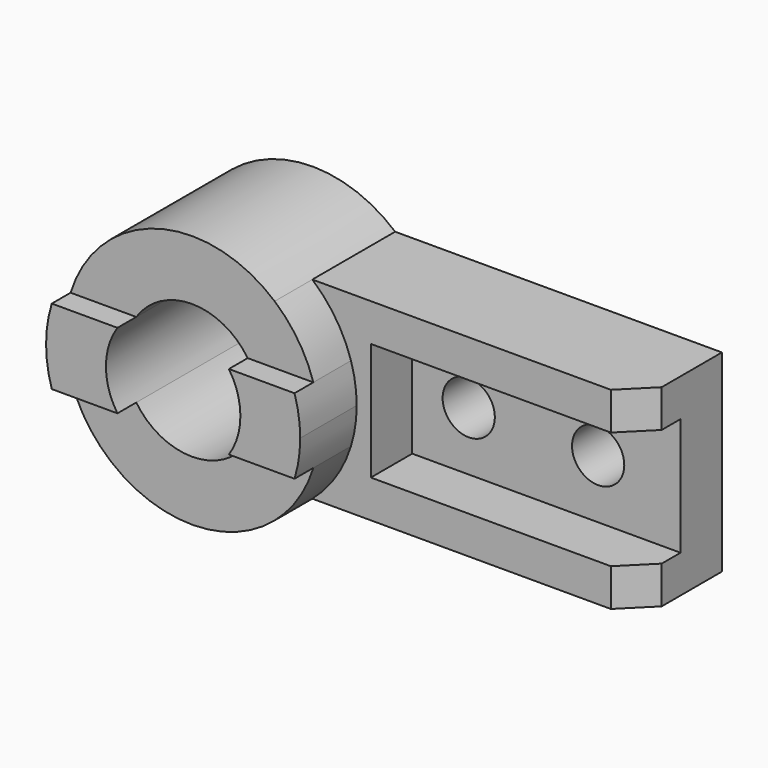
from build123d import *

# Parameters (mm, degrees)
F1_DEPTH = 44
F0_W     = 114
F0_H     = 50
F0_R     = 11.1
F2_DEPTH = 22
F3_DEPTH = 64
F4_DEPTH = 74
F5_SIZE2 = 12
F5_SIZE  = 12


with BuildPart() as f1:
    # F0 (on Front) → F1 (new body)
    with BuildSketch(Plane.XZ):
        with BuildLine():
            ThreePointArc((35.142567, 41), (45.124741, 29.660711), (51.575188, 16))
            ThreePointArc((51.575188, 16), (53.390356, 8.091349), (54, 0))
            ThreePointArc((54, 0), (53.390356, -8.091349), (51.575188, -16))
            ThreePointArc((51.575188, -16), (45.124741, -29.660711), (35.142567, -41))
            Line((35.142567, -41), (174, -41))
            Line((174, -41), (174, -25))
            Line((174, -25), (60, -25))
            Line((60, -25), (60, 25))
            Line((60, 25), (174, 25))
            Line((174, 25), (174, 41))
            Line((174, 41), (35.142567, 41))
        make_face()
    extrude(amount=F1_DEPTH)

    # F0 (on Front) → F2 (join)
    with BuildSketch(Plane.XZ):
        with Locations((117, 0)):
            Rectangle(F0_W, F0_H)
        with Locations((84, 0)):
            Circle(F0_R, mode=Mode.SUBTRACT)
        with Locations((139, 0)):
            Circle(F0_R, mode=Mode.SUBTRACT)
    extrude(amount=F2_DEPTH)

    # F0 (on Front) → F3 (join)
    with BuildSketch(Plane.XZ):
        with BuildLine():
            ThreePointArc((-23.675528, 16), (0, 28.575), (23.675528, 16))
            Line((23.675528, 16), (51.575188, 16))
            ThreePointArc((51.575188, 16), (45.124741, 29.660711), (35.142567, 41))
            ThreePointArc((35.142567, 41), (-14.958535, 51.886821), (-51.575188, 16))
            Line((-51.575188, 16), (-23.675528, 16))
        make_face()
        with BuildLine():
            Line((51.575188, -16), (23.675528, -16))
            ThreePointArc((23.675528, -16), (0, -28.575), (-23.675528, -16))
            Line((-23.675528, -16), (-51.575188, -16))
            ThreePointArc((-51.575188, -16), (-14.958535, -51.886821), (35.142567, -41))
            ThreePointArc((35.142567, -41), (45.124741, -29.660711), (51.575188, -16))
        make_face()
    extrude(amount=F3_DEPTH)

    # F0 (on Front) → F4 (join)
    with BuildSketch(Plane.XZ):
        with BuildLine():
            ThreePointArc((23.675528, 16), (27.322691, 8.366672), (28.575, 0))
            ThreePointArc((28.575, 0), (27.322691, -8.366672), (23.675528, -16))
            Line((23.675528, -16), (51.575188, -16))
            ThreePointArc((51.575188, -16), (53.390356, -8.091349), (54, 0))
            ThreePointArc((54, 0), (53.390356, 8.091349), (51.575188, 16))
            Line((51.575188, 16), (23.675528, 16))
        make_face()
        with BuildLine():
            ThreePointArc((-23.675528, -16), (-28.575, 0), (-23.675528, 16))
            Line((-23.675528, 16), (-51.575188, 16))
            ThreePointArc((-51.575188, 16), (-54, 0), (-51.575188, -16))
            Line((-51.575188, -16), (-23.675528, -16))
        make_face()
    extrude(amount=F4_DEPTH)

    # F5
    f5_edges = [f1.edges().sort_by_distance(p)[0] for p in [
        (174, -44, -33),
        (174, -44, 33),
    ]]
    chamfer(f5_edges, length=F5_SIZE, length2=F5_SIZE2)


solid = f1.part
